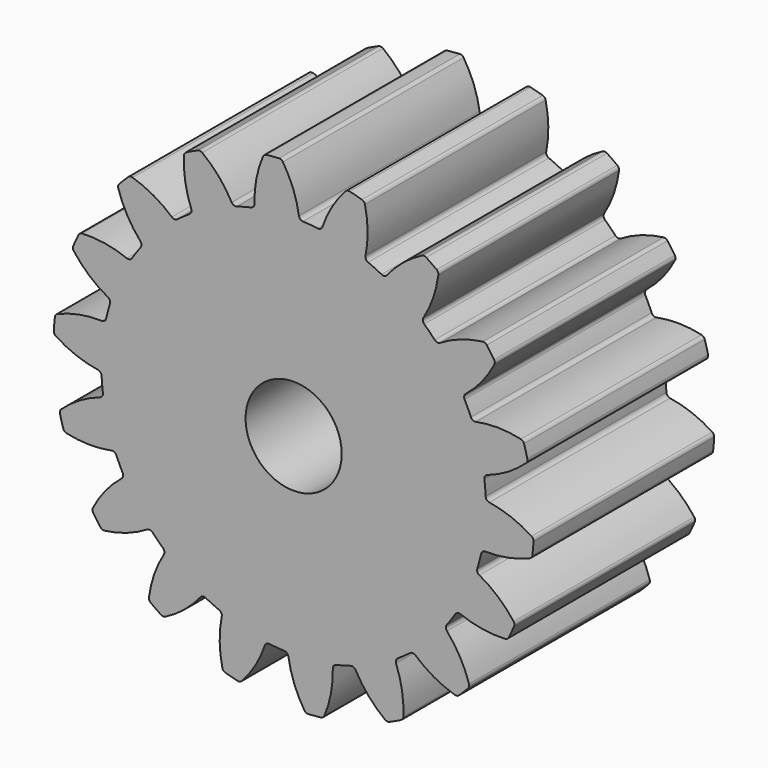
from build123d import *

# Parameters (mm, degrees)
F1_DEPTH = 4.7
F2_R     = 1
F3_DEPTH = 4.701


with BuildPart() as f1:
    # F0 (on Front) → F1 (new body)
    with BuildSketch(Plane.XZ):
        with BuildLine():
            ThreePointArc((0.10969, 4.07153), (-0.010463, 4.528161), (-0.223268, 4.949661))
            ThreePointArc((-0.223268, 4.949661), (-0.258261, 4.981191), (-0.304388, 4.990726))
            ThreePointArc((-0.304388, 4.990726), (-0.435779, 4.980973), (-0.566867, 4.967762))
            ThreePointArc((-0.566867, 4.967762), (-0.610637, 4.950362), (-0.639624, 4.913235))
            ThreePointArc((-0.639624, 4.913235), (-0.776003, 4.461185), (-0.815037, 3.990627))
            ThreePointArc((-0.815037, 3.990627), (-0.834062, 3.933246), (-0.8851, 3.900846))
            ThreePointArc((-0.8851, 3.900846), (-1.035276, 3.863703), (-1.183904, 3.820782))
            ThreePointArc((-1.183904, 3.820782), (-1.690473, 3.625231), (-2.16589, 3.362874))
            ThreePointArc((-2.16589, 3.362874), (-2.294306, 3.276608), (-2.41929, 3.185441))
            ThreePointArc((-2.41929, 3.185441), (-2.828427, 2.828427), (-3.185441, 2.41929))
            ThreePointArc((-3.185441, 2.41929), (-3.276608, 2.294306), (-3.362874, 2.16589))
            ThreePointArc((-3.362874, 2.16589), (-3.625231, 1.690473), (-3.820782, 1.183904))
            ThreePointArc((-3.820782, 1.183904), (-3.863703, 1.035276), (-3.900846, 0.8851))
            ThreePointArc((-3.900846, 0.8851), (-3.984779, 0.348623), (-3.995279, -0.194278))
            ThreePointArc((-3.995279, -0.194278), (-3.984779, -0.348623), (-3.968318, -0.502446))
            ThreePointArc((-3.968318, -0.502446), (-3.863703, -1.035276), (-3.687887, -1.549028))
            ThreePointArc((-3.687887, -1.549028), (-3.625231, -1.690473), (-3.557152, -1.82939))
            ThreePointArc((-3.557152, -1.82939), (-3.276608, -2.294306), (-2.935682, -2.716942))
            ThreePointArc((-2.935682, -2.716942), (-2.828427, -2.828427), (-2.716942, -2.935682))
            ThreePointArc((-2.716942, -2.935682), (-2.294306, -3.276608), (-1.82939, -3.557152))
            ThreePointArc((-1.82939, -3.557152), (-1.690473, -3.625231), (-1.549028, -3.687887))
            ThreePointArc((-1.549028, -3.687887), (-1.035276, -3.863703), (-0.502446, -3.968318))
            ThreePointArc((-0.502446, -3.968318), (-0.348623, -3.984779), (-0.194278, -3.995279))
            ThreePointArc((-0.194278, -3.995279), (0.348623, -3.984779), (0.8851, -3.900846))
            ThreePointArc((0.8851, -3.900846), (1.035276, -3.863703), (1.183904, -3.820782))
            ThreePointArc((1.183904, -3.820782), (1.690473, -3.625231), (2.16589, -3.362874))
            ThreePointArc((2.16589, -3.362874), (2.294306, -3.276608), (2.41929, -3.185441))
            ThreePointArc((2.41929, -3.185441), (2.828427, -2.828427), (3.185441, -2.41929))
            ThreePointArc((3.185441, -2.41929), (3.276608, -2.294306), (3.362874, -2.16589))
            ThreePointArc((3.362874, -2.16589), (3.625231, -1.690473), (3.820782, -1.183904))
            ThreePointArc((3.820782, -1.183904), (3.863703, -1.035276), (3.900846, -0.8851))
            ThreePointArc((3.900846, -0.8851), (3.984779, -0.348623), (3.995279, 0.194278))
            ThreePointArc((3.995279, 0.194278), (3.984779, 0.348623), (3.968318, 0.502446))
            ThreePointArc((3.968318, 0.502446), (3.863703, 1.035276), (3.687887, 1.549028))
            ThreePointArc((3.687887, 1.549028), (3.625231, 1.690473), (3.557152, 1.82939))
            ThreePointArc((3.557152, 1.82939), (3.276608, 2.294306), (2.935682, 2.716942))
            ThreePointArc((2.935682, 2.716942), (2.828427, 2.828427), (2.716942, 2.935682))
            ThreePointArc((2.716942, 2.935682), (2.294306, 3.276608), (1.82939, 3.557152))
            ThreePointArc((1.82939, 3.557152), (1.690473, 3.625231), (1.549028, 3.687887))
            ThreePointArc((1.549028, 3.687887), (1.035276, 3.863703), (0.502446, 3.968318))
            ThreePointArc((0.502446, 3.968318), (0.348623, 3.984779), (0.194278, 3.995279))
            ThreePointArc((0.194278, 3.995279), (0.13839, 4.018324), (0.10969, 4.07153))
        make_face()
        with BuildLine():
            ThreePointArc((0.59899, 4.028722), (0.561487, 3.981308), (0.502446, 3.968318))
            ThreePointArc((0.502446, 3.968318), (1.035276, 3.863703), (1.549028, 3.687887))
            ThreePointArc((1.549028, 3.687887), (1.504392, 3.728657), (1.49562, 3.788471))
            ThreePointArc((1.49562, 3.788471), (1.53889, 4.258658), (1.483081, 4.727522))
            ThreePointArc((1.483081, 4.727522), (1.460982, 4.769119), (1.420897, 4.793855))
            ThreePointArc((1.420897, 4.793855), (1.294095, 4.829629), (1.166394, 4.862049))
            ThreePointArc((1.166394, 4.862049), (1.119312, 4.860669), (1.079375, 4.835695))
            ThreePointArc((1.079375, 4.835695), (0.796611, 4.457551), (0.59899, 4.028722))
        make_face()
        with BuildLine():
            ThreePointArc((1.940771, 3.580893), (1.889313, 3.549166), (1.82939, 3.557152))
            ThreePointArc((1.82939, 3.557152), (2.294306, 3.276608), (2.716942, 2.935682))
            ThreePointArc((2.716942, 2.935682), (2.688942, 2.989259), (2.701156, 3.048466))
            ThreePointArc((2.701156, 3.048466), (2.90263, 3.475498), (3.010548, 3.935174))
            ThreePointArc((3.010548, 3.935174), (3.004008, 3.981821), (2.974802, 4.018775))
            ThreePointArc((2.974802, 4.018775), (2.867882, 4.09576), (2.758971, 4.169902))
            ThreePointArc((2.758971, 4.169902), (2.714256, 4.184707), (2.668186, 4.174899))
            ThreePointArc((2.668186, 4.174899), (2.273142, 3.916271), (1.940771, 3.580893))
        make_face()
        with BuildLine():
            ThreePointArc((-2.16589, 3.362874), (-1.690473, 3.625231), (-1.183904, 3.820782))
            ThreePointArc((-1.183904, 3.820782), (-1.244304, 3.823322), (-1.289471, 3.863503))
            ThreePointArc((-1.289471, 3.863503), (-1.558554, 4.251501), (-1.902687, 4.574798))
            ThreePointArc((-1.902687, 4.574798), (-1.946354, 4.592458), (-1.99296, 4.585642))
            ThreePointArc((-1.99296, 4.585642), (-2.113091, 4.531539), (-2.231755, 4.47429))
            ThreePointArc((-2.231755, 4.47429), (-2.266935, 4.442968), (-2.281475, 4.398166))
            ThreePointArc((-2.281475, 4.398166), (-2.255019, 3.926734), (-2.130759, 3.471204))
            ThreePointArc((-2.130759, 3.471204), (-2.129011, 3.410776), (-2.16589, 3.362874))
        make_face()
        with BuildLine():
            ThreePointArc((3.048466, 2.701156), (2.989259, 2.688942), (2.935682, 2.716942))
            ThreePointArc((2.935682, 2.716942), (3.276608, 2.294306), (3.557152, 1.82939))
            ThreePointArc((3.557152, 1.82939), (3.549166, 1.889313), (3.580893, 1.940771))
            ThreePointArc((3.580893, 1.940771), (3.916271, 2.273142), (4.174899, 2.668186))
            ThreePointArc((4.174899, 2.668186), (4.184707, 2.714256), (4.169902, 2.758971))
            ThreePointArc((4.169902, 2.758971), (4.09576, 2.867882), (4.018775, 2.974802))
            ThreePointArc((4.018775, 2.974802), (3.981821, 3.004008), (3.935174, 3.010548))
            ThreePointArc((3.935174, 3.010548), (3.475498, 2.90263), (3.048466, 2.701156))
        make_face()
        with BuildLine():
            ThreePointArc((-3.185441, 2.41929), (-2.828427, 2.828427), (-2.41929, 3.185441))
            ThreePointArc((-2.41929, 3.185441), (-2.476916, 3.16717), (-2.533102, 3.18948))
            ThreePointArc((-2.533102, 3.18948), (-2.918661, 3.462047), (-3.352614, 3.648147))
            ThreePointArc((-3.352614, 3.648147), (-3.399687, 3.649807), (-3.441152, 3.627461))
            ThreePointArc((-3.441152, 3.627461), (-3.535534, 3.535534), (-3.627461, 3.441152))
            ThreePointArc((-3.627461, 3.441152), (-3.649807, 3.399687), (-3.648147, 3.352614))
            ThreePointArc((-3.648147, 3.352614), (-3.462047, 2.918661), (-3.18948, 2.533102))
            ThreePointArc((-3.18948, 2.533102), (-3.16717, 2.476916), (-3.185441, 2.41929))
        make_face()
        with BuildLine():
            ThreePointArc((3.788471, 1.49562), (3.728657, 1.504392), (3.687887, 1.549028))
            ThreePointArc((3.687887, 1.549028), (3.863703, 1.035276), (3.968318, 0.502446))
            ThreePointArc((3.968318, 0.502446), (3.981308, 0.561487), (4.028722, 0.59899))
            ThreePointArc((4.028722, 0.59899), (4.457551, 0.796611), (4.835695, 1.079375))
            ThreePointArc((4.835695, 1.079375), (4.860669, 1.119312), (4.862049, 1.166394))
            ThreePointArc((4.862049, 1.166394), (4.829629, 1.294095), (4.793855, 1.420897))
            ThreePointArc((4.793855, 1.420897), (4.769119, 1.460982), (4.727522, 1.483081))
            ThreePointArc((4.727522, 1.483081), (4.258658, 1.53889), (3.788471, 1.49562))
        make_face()
        with BuildLine():
            ThreePointArc((-3.820782, 1.183904), (-3.625231, 1.690473), (-3.362874, 2.16589))
            ThreePointArc((-3.362874, 2.16589), (-3.410776, 2.129011), (-3.471204, 2.130759))
            ThreePointArc((-3.471204, 2.130759), (-3.926734, 2.255019), (-4.398166, 2.281475))
            ThreePointArc((-4.398166, 2.281475), (-4.442968, 2.266935), (-4.47429, 2.231755))
            ThreePointArc((-4.47429, 2.231755), (-4.531539, 2.113091), (-4.585642, 1.99296))
            ThreePointArc((-4.585642, 1.99296), (-4.592458, 1.946354), (-4.574798, 1.902687))
            ThreePointArc((-4.574798, 1.902687), (-4.251501, 1.558554), (-3.863503, 1.289471))
            ThreePointArc((-3.863503, 1.289471), (-3.823322, 1.244304), (-3.820782, 1.183904))
        make_face()
        with BuildLine():
            ThreePointArc((4.07153, 0.10969), (4.018324, 0.13839), (3.995279, 0.194278))
            ThreePointArc((3.995279, 0.194278), (3.984779, -0.348623), (3.900846, -0.8851))
            ThreePointArc((3.900846, -0.8851), (3.933246, -0.834062), (3.990627, -0.815037))
            ThreePointArc((3.990627, -0.815037), (4.461185, -0.776003), (4.913235, -0.639624))
            ThreePointArc((4.913235, -0.639624), (4.950362, -0.610637), (4.967762, -0.566867))
            ThreePointArc((4.967762, -0.566867), (4.980973, -0.435779), (4.990726, -0.304388))
            ThreePointArc((4.990726, -0.304388), (4.981191, -0.258261), (4.949661, -0.223268))
            ThreePointArc((4.949661, -0.223268), (4.528161, -0.010463), (4.07153, 0.10969))
        make_face()
        with BuildLine():
            ThreePointArc((-3.995279, -0.194278), (-3.984779, 0.348623), (-3.900846, 0.8851))
            ThreePointArc((-3.900846, 0.8851), (-3.933246, 0.834062), (-3.990627, 0.815037))
            ThreePointArc((-3.990627, 0.815037), (-4.461185, 0.776003), (-4.913235, 0.639624))
            ThreePointArc((-4.913235, 0.639624), (-4.950362, 0.610637), (-4.967762, 0.566867))
            ThreePointArc((-4.967762, 0.566867), (-4.980973, 0.435779), (-4.990726, 0.304388))
            ThreePointArc((-4.990726, 0.304388), (-4.981191, 0.258261), (-4.949661, 0.223268))
            ThreePointArc((-4.949661, 0.223268), (-4.528161, 0.010463), (-4.07153, -0.10969))
            ThreePointArc((-4.07153, -0.10969), (-4.018324, -0.13839), (-3.995279, -0.194278))
        make_face()
        with BuildLine():
            ThreePointArc((3.863503, -1.289471), (3.823322, -1.244304), (3.820782, -1.183904))
            ThreePointArc((3.820782, -1.183904), (3.625231, -1.690473), (3.362874, -2.16589))
            ThreePointArc((3.362874, -2.16589), (3.410776, -2.129011), (3.471204, -2.130759))
            ThreePointArc((3.471204, -2.130759), (3.926734, -2.255019), (4.398166, -2.281475))
            ThreePointArc((4.398166, -2.281475), (4.442968, -2.266935), (4.47429, -2.231755))
            ThreePointArc((4.47429, -2.231755), (4.531539, -2.113091), (4.585642, -1.99296))
            ThreePointArc((4.585642, -1.99296), (4.592458, -1.946354), (4.574798, -1.902687))
            ThreePointArc((4.574798, -1.902687), (4.251501, -1.558554), (3.863503, -1.289471))
        make_face()
        with BuildLine():
            ThreePointArc((-3.687887, -1.549028), (-3.863703, -1.035276), (-3.968318, -0.502446))
            ThreePointArc((-3.968318, -0.502446), (-3.981308, -0.561487), (-4.028722, -0.59899))
            ThreePointArc((-4.028722, -0.59899), (-4.457551, -0.796611), (-4.835695, -1.079375))
            ThreePointArc((-4.835695, -1.079375), (-4.860669, -1.119312), (-4.862049, -1.166394))
            ThreePointArc((-4.862049, -1.166394), (-4.829629, -1.294095), (-4.793855, -1.420897))
            ThreePointArc((-4.793855, -1.420897), (-4.769119, -1.460982), (-4.727522, -1.483081))
            ThreePointArc((-4.727522, -1.483081), (-4.258658, -1.53889), (-3.788471, -1.49562))
            ThreePointArc((-3.788471, -1.49562), (-3.728657, -1.504392), (-3.687887, -1.549028))
        make_face()
        with BuildLine():
            ThreePointArc((3.18948, -2.533102), (3.16717, -2.476916), (3.185441, -2.41929))
            ThreePointArc((3.185441, -2.41929), (2.828427, -2.828427), (2.41929, -3.185441))
            ThreePointArc((2.41929, -3.185441), (2.476916, -3.16717), (2.533102, -3.18948))
            ThreePointArc((2.533102, -3.18948), (2.918661, -3.462047), (3.352614, -3.648147))
            ThreePointArc((3.352614, -3.648147), (3.399687, -3.649807), (3.441152, -3.627461))
            ThreePointArc((3.441152, -3.627461), (3.535534, -3.535534), (3.627461, -3.441152))
            ThreePointArc((3.627461, -3.441152), (3.649807, -3.399687), (3.648147, -3.352614))
            ThreePointArc((3.648147, -3.352614), (3.462047, -2.918661), (3.18948, -2.533102))
        make_face()
        with BuildLine():
            ThreePointArc((-2.935682, -2.716942), (-3.276608, -2.294306), (-3.557152, -1.82939))
            ThreePointArc((-3.557152, -1.82939), (-3.549166, -1.889313), (-3.580893, -1.940771))
            ThreePointArc((-3.580893, -1.940771), (-3.916271, -2.273142), (-4.174899, -2.668186))
            ThreePointArc((-4.174899, -2.668186), (-4.184707, -2.714256), (-4.169902, -2.758971))
            ThreePointArc((-4.169902, -2.758971), (-4.09576, -2.867882), (-4.018775, -2.974802))
            ThreePointArc((-4.018775, -2.974802), (-3.981821, -3.004008), (-3.935174, -3.010548))
            ThreePointArc((-3.935174, -3.010548), (-3.475498, -2.90263), (-3.048466, -2.701156))
            ThreePointArc((-3.048466, -2.701156), (-2.989259, -2.688942), (-2.935682, -2.716942))
        make_face()
        with BuildLine():
            ThreePointArc((2.130759, -3.471204), (2.129011, -3.410776), (2.16589, -3.362874))
            ThreePointArc((2.16589, -3.362874), (1.690473, -3.625231), (1.183904, -3.820782))
            ThreePointArc((1.183904, -3.820782), (1.244304, -3.823322), (1.289471, -3.863503))
            ThreePointArc((1.289471, -3.863503), (1.558554, -4.251501), (1.902687, -4.574798))
            ThreePointArc((1.902687, -4.574798), (1.946354, -4.592458), (1.99296, -4.585642))
            ThreePointArc((1.99296, -4.585642), (2.113091, -4.531539), (2.231755, -4.47429))
            ThreePointArc((2.231755, -4.47429), (2.266935, -4.442968), (2.281475, -4.398166))
            ThreePointArc((2.281475, -4.398166), (2.255019, -3.926734), (2.130759, -3.471204))
        make_face()
        with BuildLine():
            ThreePointArc((-1.82939, -3.557152), (-2.294306, -3.276608), (-2.716942, -2.935682))
            ThreePointArc((-2.716942, -2.935682), (-2.688942, -2.989259), (-2.701156, -3.048466))
            ThreePointArc((-2.701156, -3.048466), (-2.90263, -3.475498), (-3.010548, -3.935174))
            ThreePointArc((-3.010548, -3.935174), (-3.004008, -3.981821), (-2.974802, -4.018775))
            ThreePointArc((-2.974802, -4.018775), (-2.867882, -4.09576), (-2.758971, -4.169902))
            ThreePointArc((-2.758971, -4.169902), (-2.714256, -4.184707), (-2.668186, -4.174899))
            ThreePointArc((-2.668186, -4.174899), (-2.273142, -3.916271), (-1.940771, -3.580893))
            ThreePointArc((-1.940771, -3.580893), (-1.889313, -3.549166), (-1.82939, -3.557152))
        make_face()
        with BuildLine():
            ThreePointArc((0.815037, -3.990627), (0.834062, -3.933246), (0.8851, -3.900846))
            ThreePointArc((0.8851, -3.900846), (0.348623, -3.984779), (-0.194278, -3.995279))
            ThreePointArc((-0.194278, -3.995279), (-0.13839, -4.018324), (-0.10969, -4.07153))
            ThreePointArc((-0.10969, -4.07153), (0.010463, -4.528161), (0.223268, -4.949661))
            ThreePointArc((0.223268, -4.949661), (0.258261, -4.981191), (0.304388, -4.990726))
            ThreePointArc((0.304388, -4.990726), (0.435779, -4.980973), (0.566867, -4.967762))
            ThreePointArc((0.566867, -4.967762), (0.610637, -4.950362), (0.639624, -4.913235))
            ThreePointArc((0.639624, -4.913235), (0.776003, -4.461185), (0.815037, -3.990627))
        make_face()
        with BuildLine():
            ThreePointArc((-0.502446, -3.968318), (-1.035276, -3.863703), (-1.549028, -3.687887))
            ThreePointArc((-1.549028, -3.687887), (-1.504392, -3.728657), (-1.49562, -3.788471))
            ThreePointArc((-1.49562, -3.788471), (-1.53889, -4.258658), (-1.483081, -4.727522))
            ThreePointArc((-1.483081, -4.727522), (-1.460982, -4.769119), (-1.420897, -4.793855))
            ThreePointArc((-1.420897, -4.793855), (-1.294095, -4.829629), (-1.166394, -4.862049))
            ThreePointArc((-1.166394, -4.862049), (-1.119312, -4.860669), (-1.079375, -4.835695))
            ThreePointArc((-1.079375, -4.835695), (-0.796611, -4.457551), (-0.59899, -4.028722))
            ThreePointArc((-0.59899, -4.028722), (-0.561487, -3.981308), (-0.502446, -3.968318))
        make_face()
        with BuildLine():
            ThreePointArc((0.10969, 4.07153), (-0.010463, 4.528161), (-0.223268, 4.949661))
            ThreePointArc((-0.223268, 4.949661), (-0.258261, 4.981191), (-0.304388, 4.990726))
            ThreePointArc((-0.304388, 4.990726), (-0.435779, 4.980973), (-0.566867, 4.967762))
            ThreePointArc((-0.566867, 4.967762), (-0.610637, 4.950362), (-0.639624, 4.913235))
            ThreePointArc((-0.639624, 4.913235), (-0.776003, 4.461185), (-0.815037, 3.990627))
            ThreePointArc((-0.815037, 3.990627), (-0.834062, 3.933246), (-0.8851, 3.900846))
            ThreePointArc((-0.8851, 3.900846), (-1.035276, 3.863703), (-1.183904, 3.820782))
            ThreePointArc((-1.183904, 3.820782), (-1.690473, 3.625231), (-2.16589, 3.362874))
            ThreePointArc((-2.16589, 3.362874), (-2.294306, 3.276608), (-2.41929, 3.185441))
            ThreePointArc((-2.41929, 3.185441), (-2.828427, 2.828427), (-3.185441, 2.41929))
            ThreePointArc((-3.185441, 2.41929), (-3.276608, 2.294306), (-3.362874, 2.16589))
            ThreePointArc((-3.362874, 2.16589), (-3.625231, 1.690473), (-3.820782, 1.183904))
            ThreePointArc((-3.820782, 1.183904), (-3.863703, 1.035276), (-3.900846, 0.8851))
            ThreePointArc((-3.900846, 0.8851), (-3.984779, 0.348623), (-3.995279, -0.194278))
            ThreePointArc((-3.995279, -0.194278), (-3.984779, -0.348623), (-3.968318, -0.502446))
            ThreePointArc((-3.968318, -0.502446), (-3.863703, -1.035276), (-3.687887, -1.549028))
            ThreePointArc((-3.687887, -1.549028), (-3.625231, -1.690473), (-3.557152, -1.82939))
            ThreePointArc((-3.557152, -1.82939), (-3.276608, -2.294306), (-2.935682, -2.716942))
            ThreePointArc((-2.935682, -2.716942), (-2.828427, -2.828427), (-2.716942, -2.935682))
            ThreePointArc((-2.716942, -2.935682), (-2.294306, -3.276608), (-1.82939, -3.557152))
            ThreePointArc((-1.82939, -3.557152), (-1.690473, -3.625231), (-1.549028, -3.687887))
            ThreePointArc((-1.549028, -3.687887), (-1.035276, -3.863703), (-0.502446, -3.968318))
            ThreePointArc((-0.502446, -3.968318), (-0.348623, -3.984779), (-0.194278, -3.995279))
            ThreePointArc((-0.194278, -3.995279), (0.348623, -3.984779), (0.8851, -3.900846))
            ThreePointArc((0.8851, -3.900846), (1.035276, -3.863703), (1.183904, -3.820782))
            ThreePointArc((1.183904, -3.820782), (1.690473, -3.625231), (2.16589, -3.362874))
            ThreePointArc((2.16589, -3.362874), (2.294306, -3.276608), (2.41929, -3.185441))
            ThreePointArc((2.41929, -3.185441), (2.828427, -2.828427), (3.185441, -2.41929))
            ThreePointArc((3.185441, -2.41929), (3.276608, -2.294306), (3.362874, -2.16589))
            ThreePointArc((3.362874, -2.16589), (3.625231, -1.690473), (3.820782, -1.183904))
            ThreePointArc((3.820782, -1.183904), (3.863703, -1.035276), (3.900846, -0.8851))
            ThreePointArc((3.900846, -0.8851), (3.984779, -0.348623), (3.995279, 0.194278))
            ThreePointArc((3.995279, 0.194278), (3.984779, 0.348623), (3.968318, 0.502446))
            ThreePointArc((3.968318, 0.502446), (3.863703, 1.035276), (3.687887, 1.549028))
            ThreePointArc((3.687887, 1.549028), (3.625231, 1.690473), (3.557152, 1.82939))
            ThreePointArc((3.557152, 1.82939), (3.276608, 2.294306), (2.935682, 2.716942))
            ThreePointArc((2.935682, 2.716942), (2.828427, 2.828427), (2.716942, 2.935682))
            ThreePointArc((2.716942, 2.935682), (2.294306, 3.276608), (1.82939, 3.557152))
            ThreePointArc((1.82939, 3.557152), (1.690473, 3.625231), (1.549028, 3.687887))
            ThreePointArc((1.549028, 3.687887), (1.035276, 3.863703), (0.502446, 3.968318))
            ThreePointArc((0.502446, 3.968318), (0.348623, 3.984779), (0.194278, 3.995279))
            ThreePointArc((0.194278, 3.995279), (0.13839, 4.018324), (0.10969, 4.07153))
        make_face()
    extrude(amount=F1_DEPTH)

    # F2 (on face) → F3 (cut, through all)
    with BuildSketch(Plane.XZ.offset(4.7)):
        Circle(F2_R)
    extrude(amount=-F3_DEPTH, mode=Mode.SUBTRACT)


solid = f1.part
